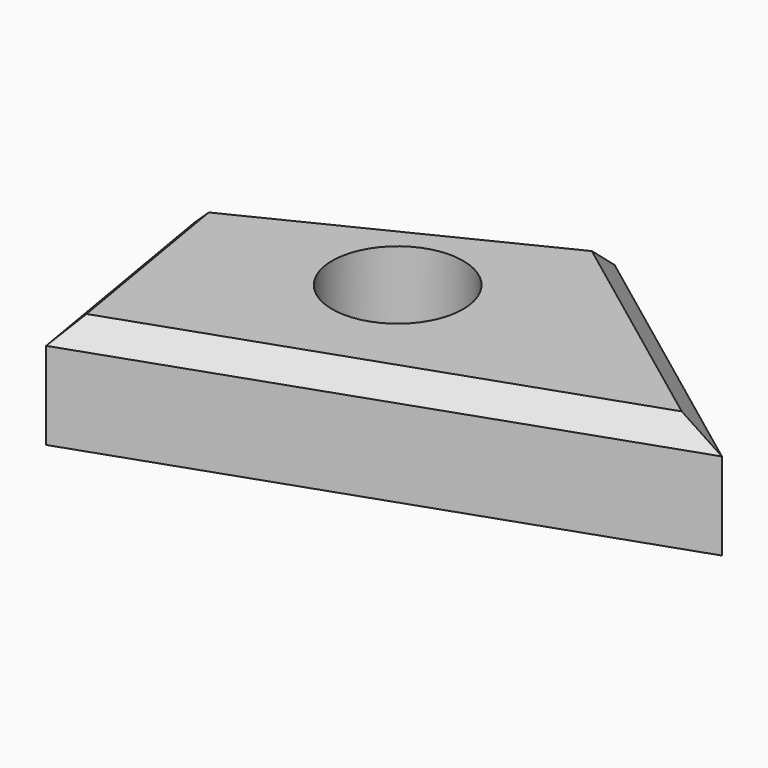
from build123d import *

# Parameters (mm, degrees)
F0_R     = 15.259541
F1_DEPTH = 25.4
F2_SIZE  = 5.08


with BuildPart() as f1:
    # F0 (on Top) → F1 (new body)
    with BuildSketch(Plane.XY):
        Polygon((-58.197681, 34.701545), (-128.283679, 0), (-119.025573, -54.748576), (4.151391, -11.995041), align=None)
        with Locations((-77.978395, -3.722796)):
            Circle(F0_R, mode=Mode.SUBTRACT)
    extrude(amount=F1_DEPTH)

    # F2
    f2_edges = [f1.edges().sort_by_distance(p)[0] for p in [
        (-93.24068, 17.350772, 25.4),
        (-123.654626, -27.374288, 25.4),
        (-57.437091, -33.371808, 25.4),
        (-27.023145, 11.353252, 25.4),
    ]]
    chamfer(f2_edges, length=F2_SIZE)


solid = f1.part
